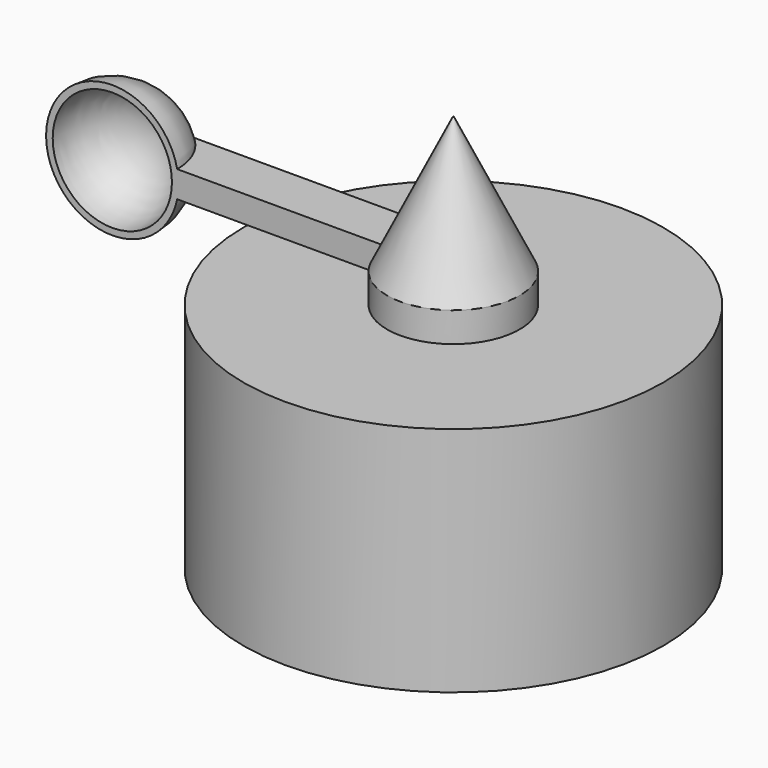
from build123d import *

# Parameters (mm, degrees)
F2_W           = 15
F2_H           = 8
F3_DEPTH       = 100
F12_R          = 6
F13_DEPTH      = 3
F13_DEPTH_BACK = 4


with BuildPart() as f1:
    # F0 (on Top) → F1 (revolve)
    with BuildSketch(Plane.XY):
        with BuildLine():
            ThreePointArc((-18, 0), (-12.727922, 12.727922), (0, 18))
            Line((0, 18), (0, 20))
            ThreePointArc((0, 20), (-14.142136, 14.142136), (-20, 0))
            Line((-20, 0), (-18, 0))
        make_face()
    revolve(axis=Axis((0, 9, 0), (0, -1, 0)))

    # F2 (on Right) → F3 (join)
    with BuildSketch(Plane.YZ):
        with Locations((7.5, 0)):
            Rectangle(F2_W, F2_H)
    extrude(amount=F3_DEPTH)

    # F4 (on Top) → F5 (revolve, cut)
    with BuildSketch(Plane.XY):
        with BuildLine():
            ThreePointArc((0, 18), (-12.727922, 12.727922), (-18, 0))
            Line((-18, 0), (0, 0))
            Line((0, 0), (0, 18))
        make_face()
    revolve(axis=Axis((0, 9, 0), (0, -1, 0)), mode=Mode.SUBTRACT)

    # F12 (on Top) → F13 (cut, two sides)
    with BuildSketch(Plane.XY) as f13_sk:
        with Locations((58.629402, 7.5)):
            Circle(F12_R)
    extrude(amount=F13_DEPTH, mode=Mode.SUBTRACT)
    extrude(f13_sk.sketch, amount=-F13_DEPTH_BACK, mode=Mode.SUBTRACT)


with BuildPart() as f7:
    # F6 (on Front) → F7 (revolve)
    with BuildSketch(Plane.XZ):
        Polygon((103, 45), (102.83871, 45), (83, 4), (83, -5), (100, -5), (100, 35), (103, 35), align=None)
    revolve(axis=Axis((103, 0, 20.166667), (0, 0, -1)))


with BuildPart() as f9:
    # F8 (on Front) → F9 (revolve)
    with BuildSketch(Plane.XZ):
        Polygon((100, -25), (100, -5), (39.595918, -5), (39.595918, -75), (42.595918, -75), (42.595918, -8), (95, -8), (95, -25), align=None)
    revolve(axis=Axis((103, 0, 20.166667), (0, 0, -1)))


solid = Compound([f1.part, f7.part, f9.part])
